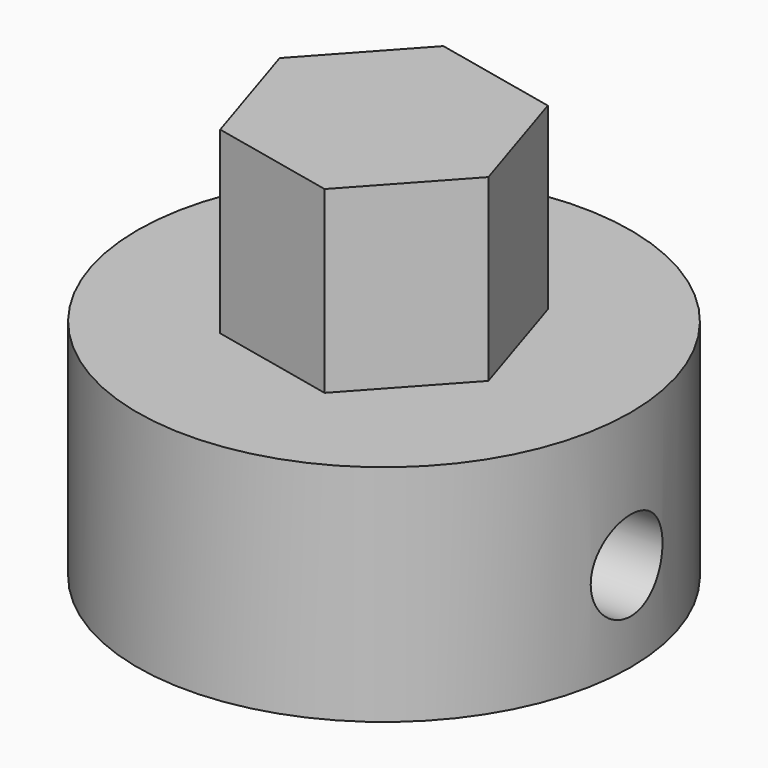
from build123d import *

# Parameters (mm, degrees)
F0_R     = 5.5
F1_DEPTH = 2.5
F3_DEPTH = 4
F5_R     = 2.5
F6_DEPTH = 4
F4_R     = 1
F7_DEPTH = 12.5


with BuildPart() as f1:
    # F0 (on Top) → F1 (new body, symmetric)
    with BuildSketch(Plane.XY):
        Circle(F0_R)
    extrude(amount=F1_DEPTH, both=True)

    # F2 (on face) → F3 (join)
    with BuildSketch(Plane.XY.offset(2.5)):
        Polygon((0.875892, -2.750663), (2.82009, -0.616786), (1.944198, 2.133876), (-0.875892, 2.750663), (-2.82009, 0.616786), (-1.944198, -2.133876), align=None)
    extrude(amount=F3_DEPTH)

    # F5 (on face) → F6 (cut)
    with BuildSketch(Plane(origin=(0, 0, -2.5), x_dir=(1, 0, 0), z_dir=(0, 0, -1))):
        Circle(F5_R)
    extrude(amount=-F6_DEPTH, mode=Mode.SUBTRACT)

    # F4 (on Right) → F7 (cut, symmetric)
    with BuildSketch(Plane.YZ):
        with Locations((0, -0.5)):
            Circle(F4_R)
    extrude(amount=F7_DEPTH, both=True, mode=Mode.SUBTRACT)


solid = f1.part
